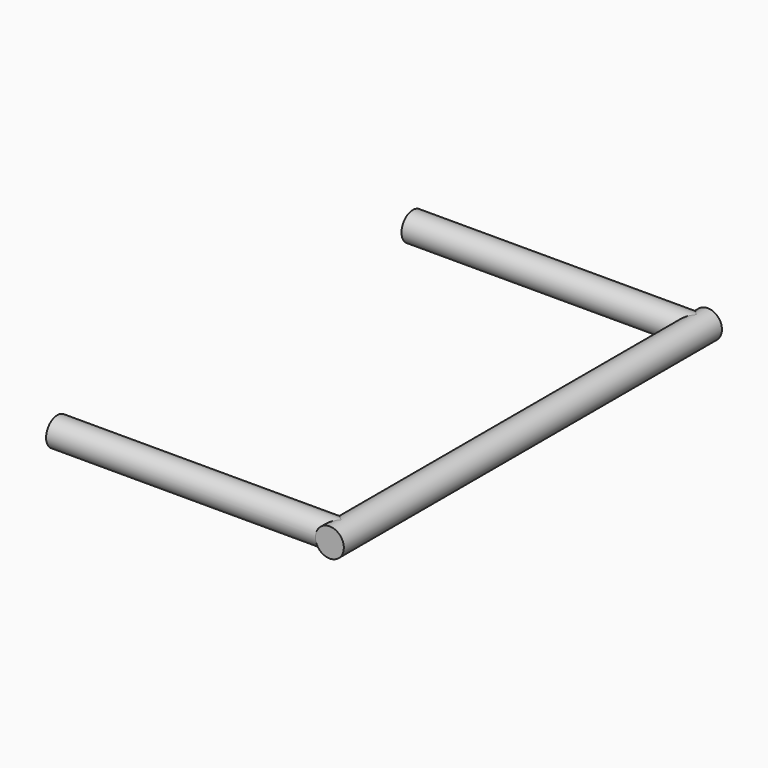
from build123d import *

# Parameters (mm, degrees)
CYLINDER023_R             = 3
CYLINDER023_DEPTH         = 60
CYLINDER023_PITCH_ANGLE   = 90
CYLINDER022_R             = 3
CYLINDER022_DEPTH         = 100
CYLINDER022_ROLL_ANGLE    = 90
CYLINDER024_R             = 3
CYLINDER024_DEPTH         = 60
CYLINDER024_PITCH_ANGLE   = 90
FUSION009_PLACEMENT_ANGLE = 180


with BuildPart() as cylinder029:
    # Cylinder023 → Cylinder023 (new body)
    with BuildSketch(Plane.XY):
        Circle(CYLINDER023_R)
    extrude(amount=CYLINDER023_DEPTH)


with BuildPart() as cylinder029_1:
    # Cylinder023 pitch: moved
    add(cylinder029.part.rotate(Axis((0, 0, 0), (0, 1, 0)), CYLINDER023_PITCH_ANGLE))


with BuildPart() as cylinder029_2:
    # Cylinder023 placement: moved
    add(cylinder029_1.part.moved(Location((-50, -3, 0))))


with BuildPart() as fusion008:
    # Cylinder022 → Cylinder022 (new body)
    with BuildSketch(Plane.XY):
        Circle(CYLINDER022_R)
    extrude(amount=CYLINDER022_DEPTH)


with BuildPart() as fusion008_1:
    # Cylinder022 roll: moved
    add(fusion008.part.rotate(Axis((0, 0, 0), (1, 0, 0)), CYLINDER022_ROLL_ANGLE))


with BuildPart() as fusion008_2:
    # Cylinder022 placement: moved
    add(fusion008_1.part.moved(Location((-50, 0, 0))))

    # Fusion008: union Cylinder029
    add(cylinder029_2.part)


with BuildPart() as handle_right:
    # Cylinder024 → Cylinder024 (new body)
    with BuildSketch(Plane.XY):
        Circle(CYLINDER024_R)
    extrude(amount=CYLINDER024_DEPTH)


with BuildPart() as handle_right_1:
    # Cylinder024 pitch: moved
    add(handle_right.part.rotate(Axis((0, 0, 0), (0, 1, 0)), CYLINDER024_PITCH_ANGLE))


with BuildPart() as handle_right_2:
    # Cylinder024 placement: moved
    add(handle_right_1.part.moved(Location((-50, -97, 0))))

    # Fusion009: union Fusion008
    add(fusion008_2.part)


with BuildPart() as handle_right_3:
    # Fusion009 placement: moved
    add(handle_right_2.part.moved(Location((500, 165, 230))).rotate(Axis((500, 165, 230), (0, 1, 0)), FUSION009_PLACEMENT_ANGLE))


solid = handle_right_3.part
